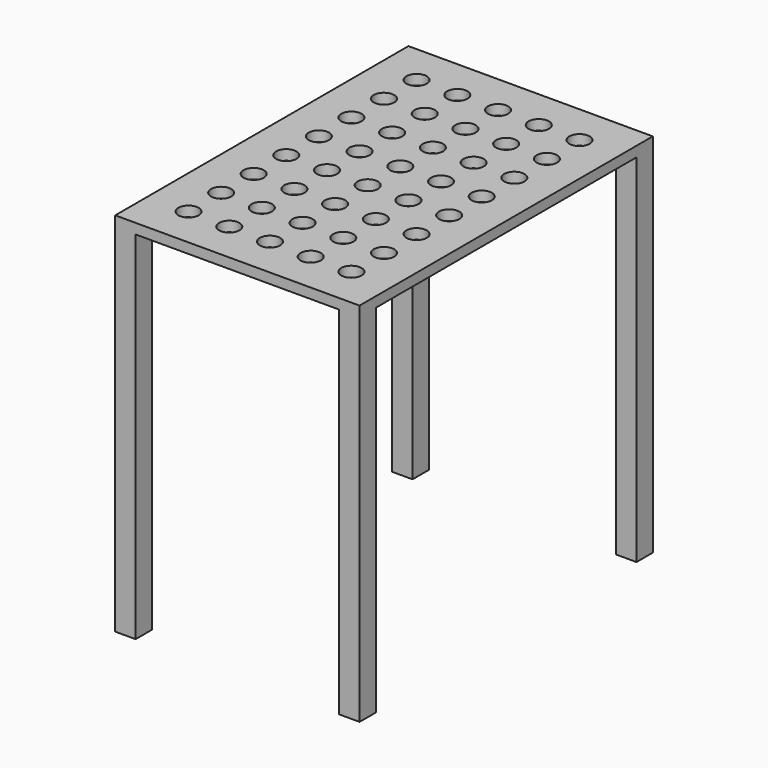
from build123d import *

# Parameters (mm, degrees)
F0_W     = 609.6
F0_H     = 914.4
F1_DEPTH = 914.4
F3_DEPTH = 889
F4_R     = 25.4
F5_DEPTH = 914.401


with BuildPart() as f1:
    # F0 (on Top) → F1 (new body)
    with BuildSketch(Plane.XY):
        with Locations((304.8, -457.2)):
            Rectangle(F0_W, F0_H)
    extrude(amount=-F1_DEPTH)

    # F2 (on face) → F3 (cut)
    with BuildSketch(Plane(origin=(0, 0, -914.4), x_dir=(1, 0, 0), z_dir=(0, 0, -1))):
        Polygon((50.8, 50.8), (50.8, 0), (558.8, 0), (558.8, 50.8), (609.6, 50.8), (609.6, 863.6), (558.8, 863.6), (558.8, 914.4), (50.8, 914.4), (50.8, 863.6), (0, 863.6), (0, 50.8), align=None)
    extrude(amount=-F3_DEPTH, mode=Mode.SUBTRACT)

    # F4 (on face) → F5 (cut, through all)
    with BuildSketch(Plane.XY):
        with Locations((101.6, -101.6)):
            Circle(F4_R)
        with Locations((203.2, -101.6)):
            Circle(F4_R)
        with Locations((304.8, -101.6)):
            Circle(F4_R)
        with Locations((406.4, -101.6)):
            Circle(F4_R)
        with Locations((508, -101.6)):
            Circle(F4_R)
        with Locations((508, -203.2)):
            Circle(F4_R)
        with Locations((406.4, -203.2)):
            Circle(F4_R)
        with Locations((304.8, -203.2)):
            Circle(F4_R)
        with Locations((203.2, -203.2)):
            Circle(F4_R)
        with Locations((101.6, -203.2)):
            Circle(F4_R)
        with Locations((101.6, -304.8)):
            Circle(F4_R)
        with Locations((203.2, -304.8)):
            Circle(F4_R)
        with Locations((304.8, -304.8)):
            Circle(F4_R)
        with Locations((406.4, -304.8)):
            Circle(F4_R)
        with Locations((508, -304.8)):
            Circle(F4_R)
        with Locations((508, -406.4)):
            Circle(F4_R)
        with Locations((406.4, -406.4)):
            Circle(F4_R)
        with Locations((304.8, -406.4)):
            Circle(F4_R)
        with Locations((203.2, -406.4)):
            Circle(F4_R)
        with Locations((101.6, -406.4)):
            Circle(F4_R)
        with Locations((101.6, -508)):
            Circle(F4_R)
        with Locations((203.2, -508)):
            Circle(F4_R)
        with Locations((304.8, -508)):
            Circle(F4_R)
        with Locations((406.4, -508)):
            Circle(F4_R)
        with Locations((508, -508)):
            Circle(F4_R)
        with Locations((508, -609.6)):
            Circle(F4_R)
        with Locations((406.4, -609.6)):
            Circle(F4_R)
        with Locations((304.8, -609.6)):
            Circle(F4_R)
        with Locations((203.2, -609.6)):
            Circle(F4_R)
        with Locations((101.6, -609.6)):
            Circle(F4_R)
        with Locations((101.6, -711.2)):
            Circle(F4_R)
        with Locations((203.2, -711.2)):
            Circle(F4_R)
        with Locations((304.8, -711.2)):
            Circle(F4_R)
        with Locations((406.4, -711.2)):
            Circle(F4_R)
        with Locations((508, -711.2)):
            Circle(F4_R)
        with Locations((508, -812.8)):
            Circle(F4_R)
        with Locations((406.4, -812.8)):
            Circle(F4_R)
        with Locations((304.8, -812.8)):
            Circle(F4_R)
        with Locations((203.2, -812.8)):
            Circle(F4_R)
        with Locations((101.6, -812.8)):
            Circle(F4_R)
    extrude(amount=-F5_DEPTH, mode=Mode.SUBTRACT)


solid = f1.part
